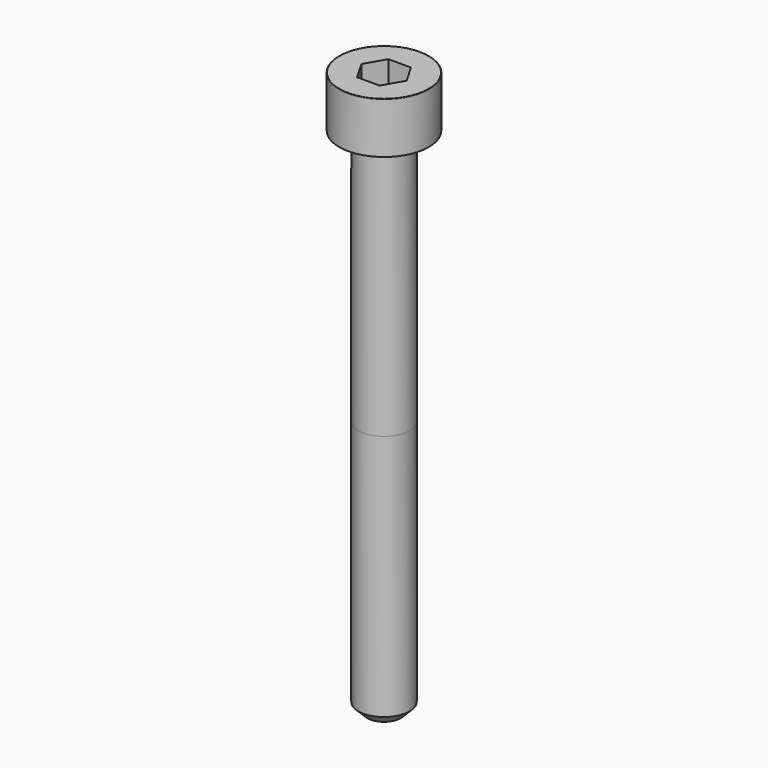
from build123d import *

# Parameters (mm, degrees)
POCKET_DEPTH = 3.06


with BuildPart() as part:
    # Sketch → Revolve (revolve)
    with BuildSketch(Plane.YZ):
        with BuildLine():
            Line((1.999, 0), (3.5, 0))
            Line((3.5, 0), (3.5, 3.97229))
            ThreePointArc((3.5, 3.97229), (3.491884, 3.991884), (3.47229, 4))
            Line((3.47229, 4), (0, 4))
            Line((0, -40), (0, 4))
            Line((1.3, -40), (0, -40))
            Line((2, -39.3), (1.3, -40))
            Line((2, -20), (2, -39.3))
            Line((1.999, 0), (2, -20))
        make_face()
    revolve(axis=Axis((0, 0, 0), (0, 0, 1)))

    # Sketch001 → Pocket (cut)
    with BuildSketch(Plane.XY.offset(4)):
        Polygon((1.766692, 0), (0.883346, 1.53), (-0.883346, 1.53), (-1.766692, 0), (-0.883346, -1.53), (0.883346, -1.53), align=None)
    extrude(amount=-POCKET_DEPTH, mode=Mode.SUBTRACT)


solid = part.part
